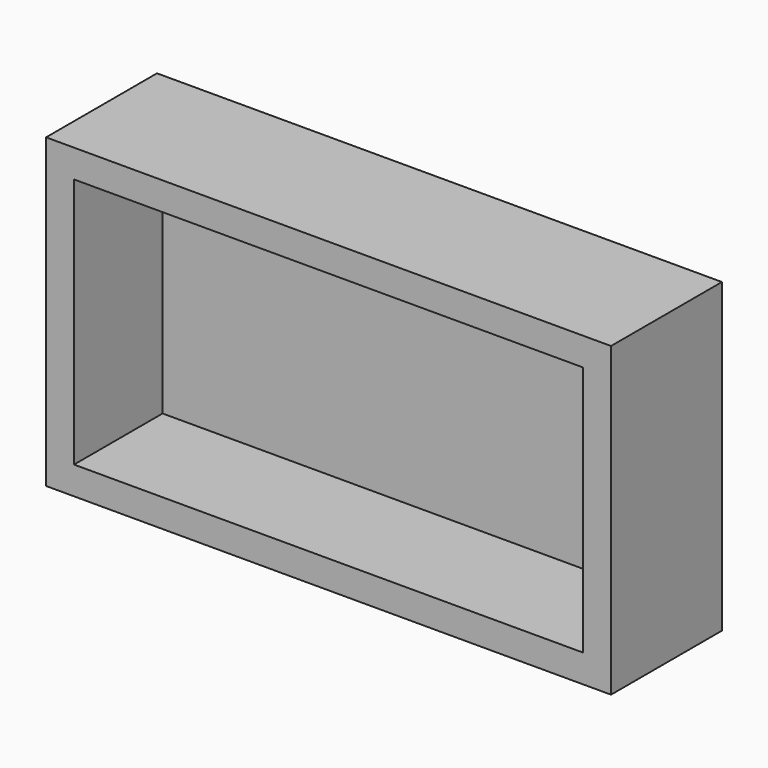
from build123d import *

# Parameters (mm, degrees)
F0_W     = 22.82
F0_H     = 12.4
F1_DEPTH = 5.6
F2_T     = -1.13
F3_R     = 0.615
F3_R_2   = 0.435
F5_DEPTH = 2.13
F4_R     = 0.615
F4_R_2   = 0.435
F6_DEPTH = 2.13


with BuildPart() as f1:
    # F0 (on Front) → F1 (new body)
    with BuildSketch(Plane.XZ):
        Rectangle(F0_W, F0_H)
    extrude(amount=F1_DEPTH)

    # F2
    f2_openings = [f1.faces().sort_by_distance(p)[0] for p in [
        (0, -5.6, 0),
    ]]
    offset(amount=F2_T, openings=f2_openings)


with BuildPart() as f5:
    # F3 (on Front) → F5 (new body)
    with BuildSketch(Plane.XZ):
        with Locations((9.845, 4.635)):
            Circle(F3_R)
        with Locations((9.845, 4.635)):
            Circle(F3_R_2, mode=Mode.SUBTRACT)
    extrude(amount=F5_DEPTH)


with BuildPart() as f6:
    # F4 (on Front) → F6 (new body)
    with BuildSketch(Plane.XZ):
        with Locations((9.845, -4.635)):
            Circle(F4_R)
        with Locations((9.845, -4.635)):
            Circle(F4_R_2, mode=Mode.SUBTRACT)
    extrude(amount=F6_DEPTH)


solid = Compound([f1.part, f5.part, f6.part])
